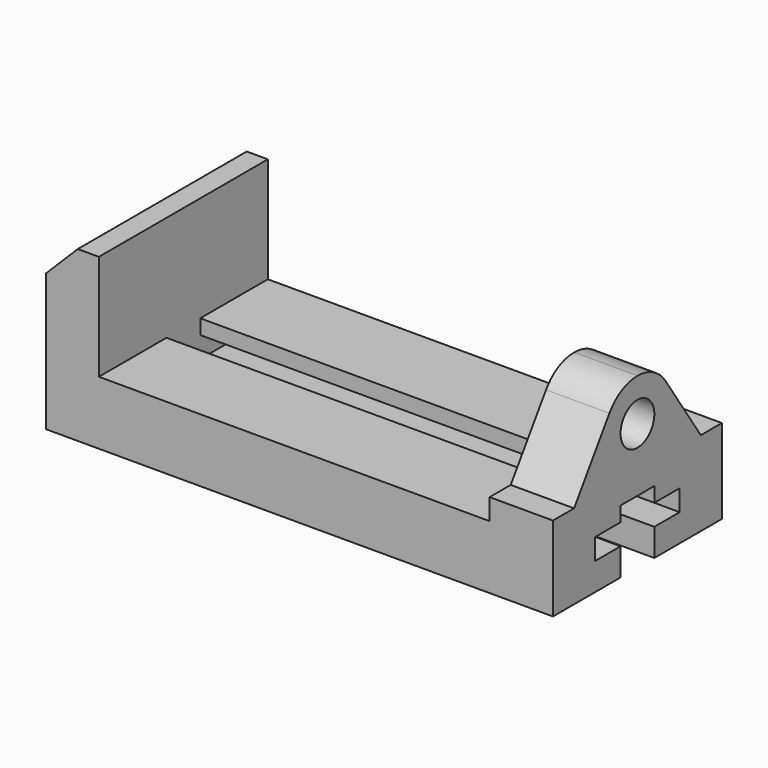
from build123d import *

# Parameters (mm, degrees)
F0_W     = 304.8
F0_H     = 101.6
F1_DEPTH = 127
F2_W     = 234.95
F2_H     = 63.5
F3_DEPTH = 127.001
F5_DEPTH = 127.001
F6_R     = 12.7
F7_DEPTH = 38.1
F9_DEPTH = 273.05


with BuildPart() as f1:
    # F0 (on Front) → F1 (new body)
    with BuildSketch(Plane.XZ):
        with Locations((152.4, 50.8)):
            Rectangle(F0_W, F0_H)
    extrude(amount=F1_DEPTH)

    # F2 (on face) → F3 (cut, through all)
    with BuildSketch(Plane.XZ.offset(127)):
        with Locations((149.225, 69.85)):
            Rectangle(F2_W, F2_H)
    extrude(amount=-F3_DEPTH, mode=Mode.SUBTRACT)

    # F4 (on face) → F5 (cut, through all)
    with BuildSketch(Plane.XZ.offset(127)):
        Polygon((19.05, 101.6), (0, 101.6), (0, 82.55), align=None)
    extrude(amount=-F5_DEPTH, mode=Mode.SUBTRACT)

    # F6 (on face) → F7 (cut, through all)
    with BuildSketch(Plane.YZ.offset(304.8)):
        with BuildLine():
            Line((-127, 101.6), (-127, 50.8))
            Line((-127, 50.8), (-111.125, 50.8))
            Line((-111.125, 50.8), (-84.593426, 90.350173))
            ThreePointArc((-84.593426, 90.350173), (-75.452941, 98.611765), (-63.5, 101.6))
            Line((-63.5, 101.6), (-127, 101.6))
        make_face()
        with BuildLine():
            Line((-15.875, 50.8), (0, 50.8))
            Line((0, 50.8), (0, 101.6))
            Line((0, 101.6), (-63.5, 101.6))
            ThreePointArc((-63.5, 101.6), (-51.547059, 98.611765), (-42.406574, 90.350173))
            Line((-42.406574, 90.350173), (-15.875, 50.8))
        make_face()
        with Locations((-63.5, 76.2)):
            Circle(F6_R)
    extrude(amount=-F7_DEPTH, mode=Mode.SUBTRACT)

    # F8 (on face) → F9 (cut, through all)
    with BuildSketch(Plane.YZ.offset(304.8)):
        Polygon((-76.2, 16.51), (-76.2, 0), (-63.5, 0), (-50.8, 0), (-50.8, 16.51), (-31.75, 16.51), (-31.75, 29.21), (-50.8, 29.21), (-50.8, 38.1), (-63.5, 38.1), (-76.2, 38.1), (-76.2, 29.21), (-95.25, 29.21), (-95.25, 16.51), align=None)
    extrude(amount=-F9_DEPTH, mode=Mode.SUBTRACT)


solid = f1.part
